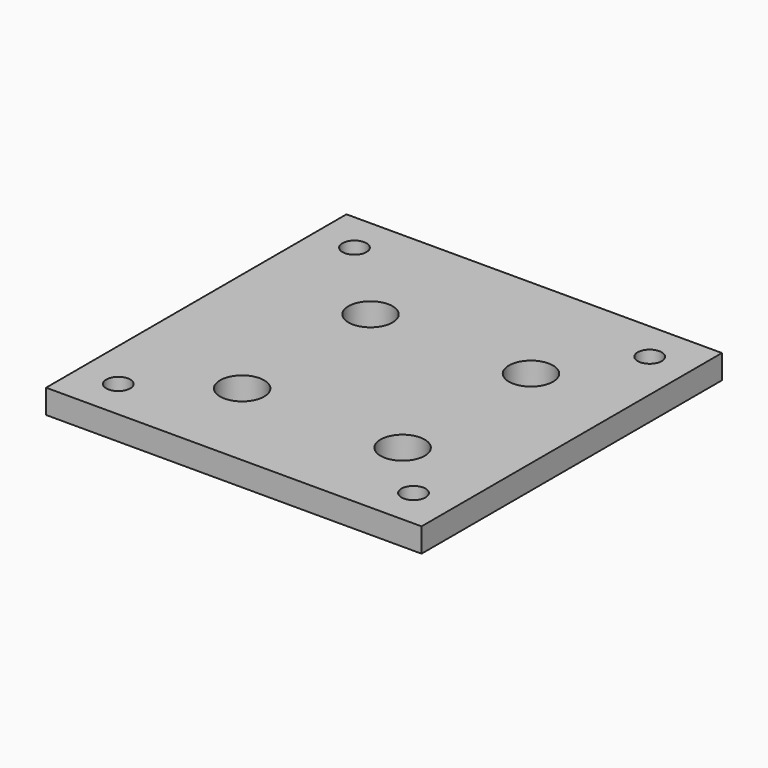
from build123d import *

# Parameters (mm, degrees)
SKETCH_W      = 46.8
SKETCH_H      = 46.8
SKETCH_R      = 2.75
SKETCH_R_2    = 1.5
PAD_DEPTH     = 3
SKETCH001_R   = 5
SKETCH001_R_2 = 2.75
PAD001_DEPTH  = 4


with BuildPart() as part:
    # Sketch → Pad (new body)
    with BuildSketch(Plane.XY):
        with Locations((18.4, -18.4)):
            Rectangle(SKETCH_W, SKETCH_H)
        with Locations((10, -10)):
            Circle(SKETCH_R, mode=Mode.SUBTRACT)
        with Locations((30, -10)):
            Circle(SKETCH_R, mode=Mode.SUBTRACT)
        with Locations((30, -30)):
            Circle(SKETCH_R, mode=Mode.SUBTRACT)
        with Locations((10, -30)):
            Circle(SKETCH_R, mode=Mode.SUBTRACT)
        Circle(SKETCH_R_2, mode=Mode.SUBTRACT)
        with Locations((36.8, 0)):
            Circle(SKETCH_R_2, mode=Mode.SUBTRACT)
        with Locations((0, -36.8)):
            Circle(SKETCH_R_2, mode=Mode.SUBTRACT)
        with Locations((36.8, -36.8)):
            Circle(SKETCH_R_2, mode=Mode.SUBTRACT)
    extrude(amount=PAD_DEPTH)

    # Sketch001 → Pad001 (join)
    with BuildSketch(Plane.XY):
        with Locations((30, -10)):
            Circle(SKETCH001_R)
        with Locations((30, -10)):
            Circle(SKETCH001_R_2, mode=Mode.SUBTRACT)
        with Locations((10, -10)):
            Circle(SKETCH001_R)
        with Locations((10, -10)):
            Circle(SKETCH001_R_2, mode=Mode.SUBTRACT)
        with Locations((10, -30)):
            Circle(SKETCH001_R)
        with Locations((10, -30)):
            Circle(SKETCH001_R_2, mode=Mode.SUBTRACT)
        with Locations((30, -30)):
            Circle(SKETCH001_R)
        with Locations((30, -30)):
            Circle(SKETCH001_R_2, mode=Mode.SUBTRACT)
    extrude(amount=-PAD001_DEPTH)


solid = part.part
